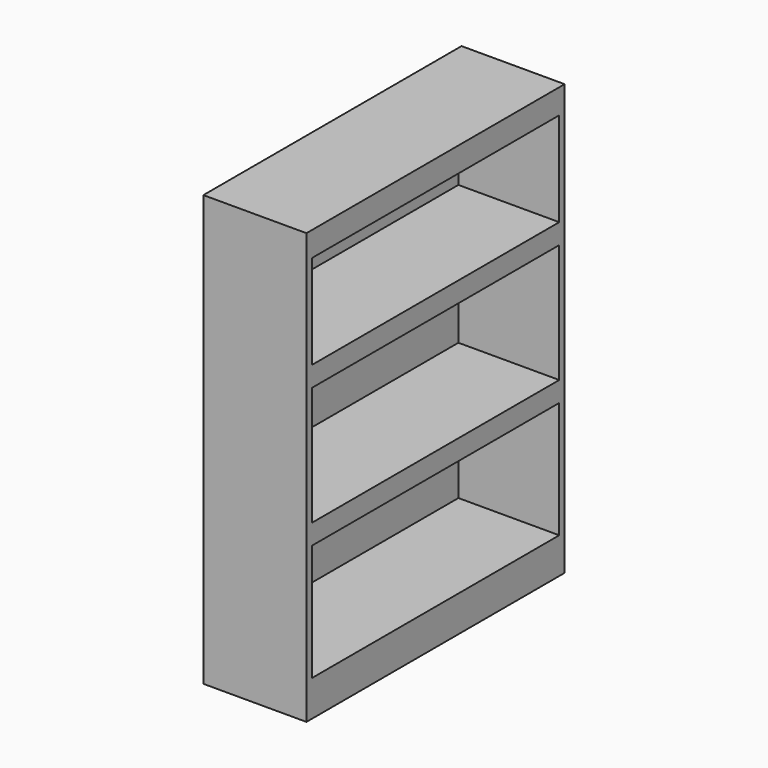
from build123d import *

# Parameters (mm, degrees)
F0_W     = 292.1
F0_H     = 914.4
F1_DEPTH = 1219.2
F2_W     = 876.3
F2_H     = 266.7
F2_H_2   = 336.55
F2_H_3   = 330.2
F3_DEPTH = 285.75


with BuildPart() as f1:
    # F0 (on Top) → F1 (new body)
    with BuildSketch(Plane.XY):
        with Locations((146.05, 0)):
            Rectangle(F0_W, F0_H)
    extrude(amount=F1_DEPTH)

    # F2 (on face) → F3 (cut)
    with BuildSketch(Plane.YZ.offset(292.1)):
        with Locations((0, 1016)):
            Rectangle(F2_W, F2_H)
        with Locations((0, 657.225)):
            Rectangle(F2_W, F2_H_2)
        with Locations((0, 266.7)):
            Rectangle(F2_W, F2_H_3)
    extrude(amount=-F3_DEPTH, mode=Mode.SUBTRACT)


solid = f1.part
